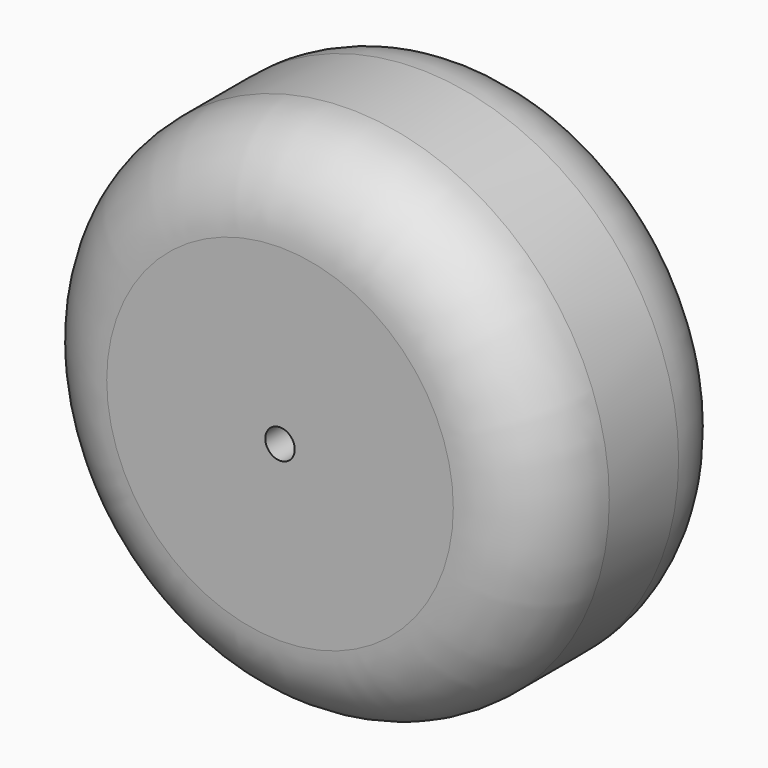
from build123d import *

# Parameters (mm, degrees)
CYLINDER014_R          = 1.7
CYLINDER014_DEPTH      = 31
CYLINDER014_ROLL_ANGLE = 90
CYLINDER012_R          = 30
CYLINDER012_DEPTH      = 30
CYLINDER012_ROLL_ANGLE = 90
CYLINDER013_R          = 10
CYLINDER013_DEPTH      = 31
CYLINDER013_ROLL_ANGLE = 90
FILLET004_R            = 10


with BuildPart() as cilindro014:
    # Cylinder014 → Cylinder014 (new body)
    with BuildSketch(Plane.XY):
        Circle(CYLINDER014_R)
    extrude(amount=CYLINDER014_DEPTH)


with BuildPart() as cilindro014_1:
    # Cylinder014 roll: moved
    add(cilindro014.part.rotate(Axis((0, 0, 0), (1, 0, 0)), CYLINDER014_ROLL_ANGLE))


with BuildPart() as cilindro014_2:
    # Cylinder014 placement: moved
    add(cilindro014_1.part.moved(Location((220, 89, -34.5))))


with BuildPart() as cilindro012:
    # Cylinder012 → Cylinder012 (new body)
    with BuildSketch(Plane.XY):
        Circle(CYLINDER012_R)
    extrude(amount=CYLINDER012_DEPTH)


with BuildPart() as cilindro012_1:
    # Cylinder012 roll: moved
    add(cilindro012.part.rotate(Axis((0, 0, 0), (1, 0, 0)), CYLINDER012_ROLL_ANGLE))


with BuildPart() as cilindro012_2:
    # Cylinder012 placement: moved
    add(cilindro012_1.part.moved(Location((220, 89, -34.5))))


with BuildPart() as fillet004:
    # Cylinder013 → Cylinder013 (new body)
    with BuildSketch(Plane.XY):
        Circle(CYLINDER013_R)
    extrude(amount=CYLINDER013_DEPTH)


with BuildPart() as fillet004_1:
    # Cylinder013 roll: moved
    add(fillet004.part.rotate(Axis((0, 0, 0), (1, 0, 0)), CYLINDER013_ROLL_ANGLE))


with BuildPart() as fillet004_2:
    # Cylinder013 placement: moved
    add(fillet004_1.part.moved(Location((220, 89, -34.5))))

    # Fusion015: union Cilindro012
    add(cilindro012_2.part)

    # Cut008: cut Cilindro014
    add(cilindro014_2.part, mode=Mode.SUBTRACT)

    # Fillet004
    fillet004_edges = [fillet004_2.edges().sort_by_distance(p)[0] for p in [
        (190, 59, -34.5),
        (190, 89, -34.5),
    ]]
    fillet(fillet004_edges, radius=FILLET004_R)


with BuildPart() as part_mirroring001:
    # Part__Mirroring001: instance of Fillet004
    add(fillet004_2.part.mirror(Plane(origin=(220, -4e-06, -34.499992), x_dir=(1, 0, 0), z_dir=(0, 1, 0))))


solid = part_mirroring001.part
